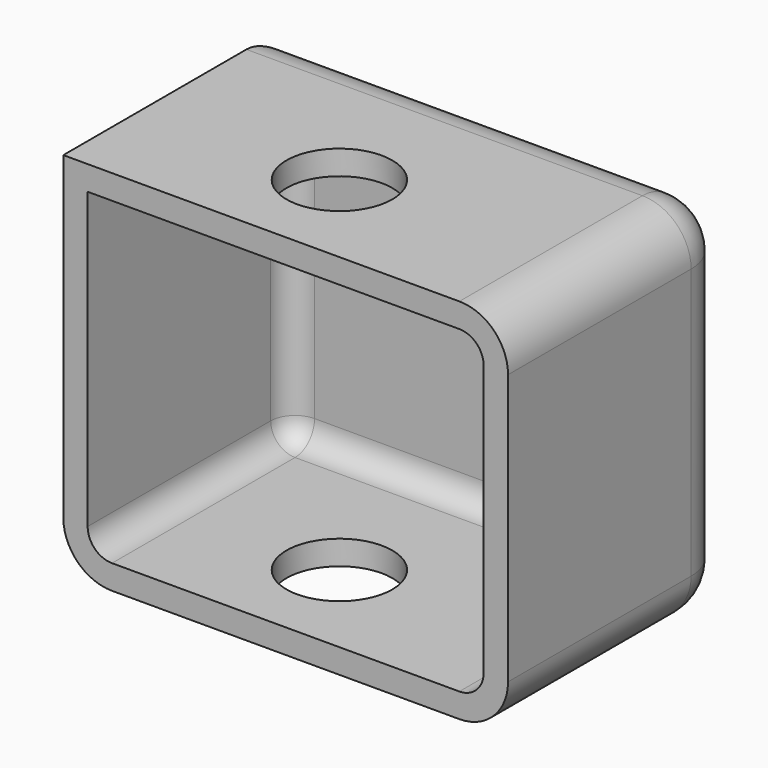
from build123d import *

# Parameters (mm, degrees)
F0_W     = 46.4019156061
F0_H     = 38.3702367544
F1_DEPTH = 14.478
F2_R     = 5.08
F3_T     = -2.54
F4_R     = 5.5182295765
F5_DEPTH = 38.862


with BuildPart() as f1:
    # F0 (on Front) → F1 (new body, symmetric)
    with BuildSketch(Plane.XZ):
        with Locations((25.8178424556, 19.1851183772)):
            Rectangle(F0_W, F0_H)
    extrude(amount=F1_DEPTH, both=True)

    # F2
    f2_edges = [f1.edges().sort_by_distance(p)[0] for p in [
        (49.0188, 14.478, 19.185118),
        (49.0188, 0, 0),
        (2.616885, 0, 0),
        (25.817842, 14.478, 0),
        (2.616885, 14.478, 19.185118),
        (25.817842, 14.478, 38.370237),
        (49.0188, 0, 38.370237),
    ]]
    fillet(f2_edges, radius=F2_R)

    # F3
    f3_openings = [f1.faces().sort_by_distance(p)[0] for p in [
        (25.748559, -14.478, 19.241793),
    ]]
    offset(amount=F3_T, openings=f3_openings)

    # F4 (on face) → F5 (cut)
    with BuildSketch(Plane(origin=(0, 0, 0), x_dir=(1, 0, 0), z_dir=(0, 0, -1))):
        with Locations((22.9106154293, 3.8371770643)):
            Circle(F4_R)
    extrude(amount=-F5_DEPTH, mode=Mode.SUBTRACT)


solid = f1.part
